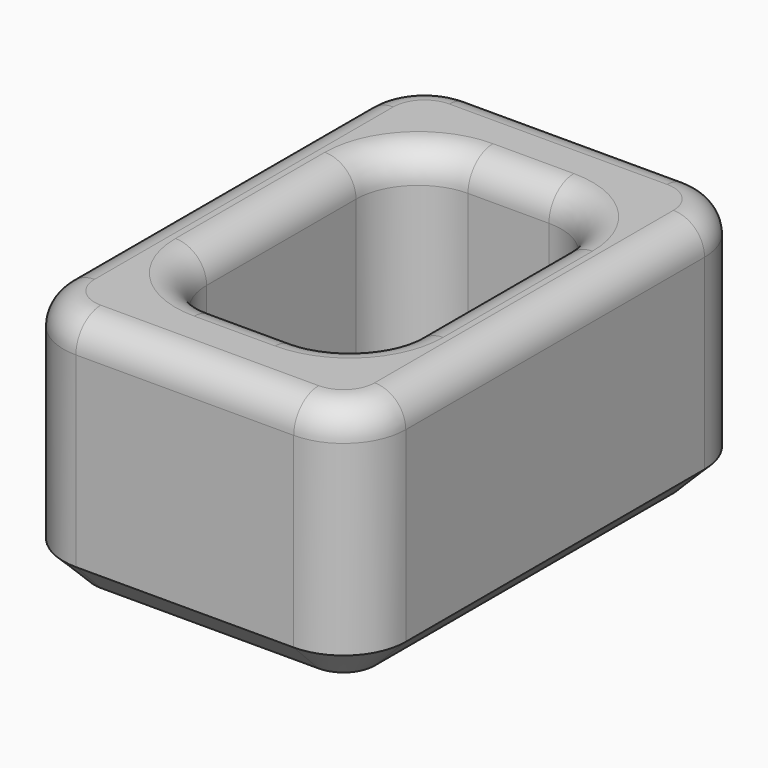
from build123d import *

# Parameters (mm, degrees)
F0_W     = 5.5
F0_H     = 8
F0_W_2   = 3.3
F0_H_2   = 5
F1_DEPTH = 4
F2_R     = 1
F3_R     = 1
F4_R     = 0.5
F5_SIZE  = 0.5


with BuildPart() as f1:
    # F0 (on Top) → F1 (new body)
    with BuildSketch(Plane.XY):
        Rectangle(F0_W, F0_H)
        Rectangle(F0_W_2, F0_H_2, mode=Mode.SUBTRACT)
    extrude(amount=F1_DEPTH)

    # F2
    f2_edges = [f1.edges().sort_by_distance(p)[0] for p in [
        (-2.75, -4, 2),
        (2.75, -4, 2),
        (-2.75, 4, 2),
        (2.75, 4, 2),
    ]]
    fillet(f2_edges, radius=F2_R)

    # F3
    f3_edges = [f1.edges().sort_by_distance(p)[0] for p in [
        (1.65, 2.5, 2),
        (1.65, -2.5, 2),
        (-1.65, -2.5, 2),
        (-1.65, 2.5, 2),
    ]]
    fillet(f3_edges, radius=F3_R)

    # F4
    f4_edges = [f1.edges().sort_by_distance(p)[0] for p in [
        (1.65, 0, 4),
        (1.357107, 2.207107, 4),
        (1.357107, -2.207107, 4),
        (0, 2.5, 4),
        (0, -2.5, 4),
        (-1.357107, 2.207107, 4),
        (-1.357107, -2.207107, 4),
        (-1.65, 0, 4),
        (0, -4, 4),
        (-2.457107, -3.707107, 4),
        (2.457107, -3.707107, 4),
        (-2.75, 0, 4),
        (2.75, 0, 4),
        (-2.457107, 3.707107, 4),
        (2.457107, 3.707107, 4),
        (0, 4, 4),
    ]]
    fillet(f4_edges, radius=F4_R)

    # F5
    f5_edges = [f1.edges().sort_by_distance(p)[0] for p in [
        (1.65, 0, 0),
        (1.357107, 2.207107, 0),
        (1.357107, -2.207107, 0),
        (0, 2.5, 0),
        (0, -2.5, 0),
        (-1.357107, 2.207107, 0),
        (-1.357107, -2.207107, 0),
        (-1.65, 0, 0),
        (0, -4, 0),
        (-2.457107, -3.707107, 0),
        (2.457107, -3.707107, 0),
        (-2.75, 0, 0),
        (2.75, 0, 0),
        (-2.457107, 3.707107, 0),
        (2.457107, 3.707107, 0),
        (0, 4, 0),
    ]]
    chamfer(f5_edges, length=F5_SIZE)


solid = f1.part
